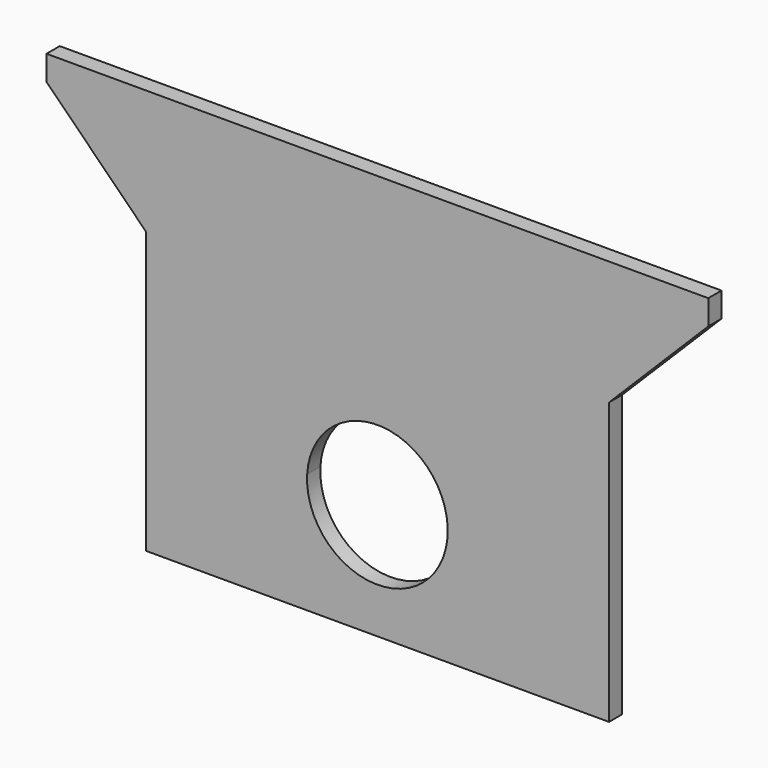
from build123d import *

# Parameters (mm, degrees)
F1_DEPTH = 12.7


with BuildPart() as f1:
    # F0 (on Front) → F1 (new body)
    with BuildSketch(Plane.XZ):
        with BuildLine():
            Line((177.8, -76.2), (254, 0))
            Line((254, 0), (254, 19.05))
            Line((254, 19.05), (-254, 19.05))
            Line((-254, 19.05), (-254, 0))
            Line((-254, 0), (-177.8, -76.2))
            Line((-177.8, -76.2), (-53.910349, -200.089651))
            ThreePointArc((-53.910349, -200.089651), (0, -149.2), (53.910349, -200.089651))
            Line((53.910349, -200.089651), (177.8, -76.2))
        make_face()
        with BuildLine():
            Line((177.8, -292.1), (177.8, -76.2))
            Line((177.8, -76.2), (53.910349, -200.089651))
            ThreePointArc((53.910349, -200.089651), (53.977583, -201.64418), (54, -203.2))
            ThreePointArc((54, -203.2), (-1.55582, -257.177583), (-53.910349, -200.089651))
            Line((-53.910349, -200.089651), (-177.8, -76.2))
            Line((-177.8, -76.2), (-177.8, -292.1))
            Line((-177.8, -292.1), (177.8, -292.1))
        make_face()
    extrude(amount=F1_DEPTH)


solid = f1.part
